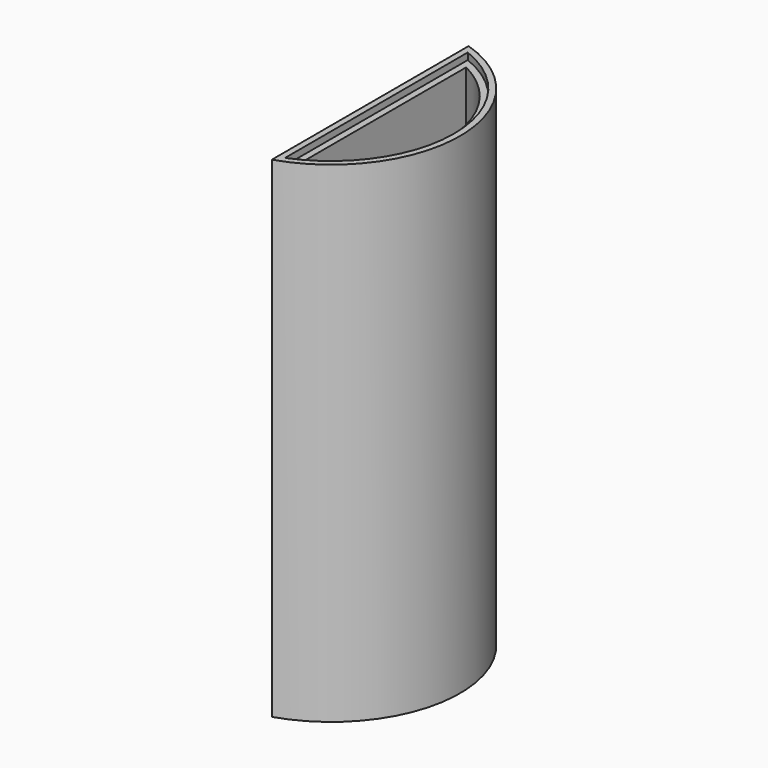
from build123d import *

# Parameters (mm, degrees)
F1_DEPTH = 95
F2_DEPTH = 93.7


with BuildPart() as f1:
    # F0 (on Top) → F1 (new body)
    with BuildSketch(Plane.XY):
        with BuildLine():
            Line((7.6, -21.177582), (7.6, -23.816801))
            ThreePointArc((7.6, -23.816801), (25, 0), (7.6, 23.816801))
            Line((7.6, 23.816801), (7.6, 21.177582))
            Line((7.6, 21.177582), (7.6, -21.177582))
        make_face()
        with BuildLine():
            ThreePointArc((8.8, 22.113344), (23.8, 0), (8.8, -22.113344))
            Line((8.8, -22.113344), (8.8, 22.113344))
        make_face(mode=Mode.SUBTRACT)
    extrude(amount=F1_DEPTH)

    # F0 (on Top) → F2 (join)
    with BuildSketch(Plane.XY):
        with BuildLine():
            Line((8.8, 22.113344), (8.8, -22.113344))
            ThreePointArc((8.8, -22.113344), (23.8, 0), (8.8, 22.113344))
        make_face()
        with BuildLine():
            ThreePointArc((10.1, 20.105721), (22.5, 0), (10.1, -20.105721))
            Line((10.1, -20.105721), (10.1, 20.105721))
        make_face(mode=Mode.SUBTRACT)
    extrude(amount=F2_DEPTH)


solid = f1.part
